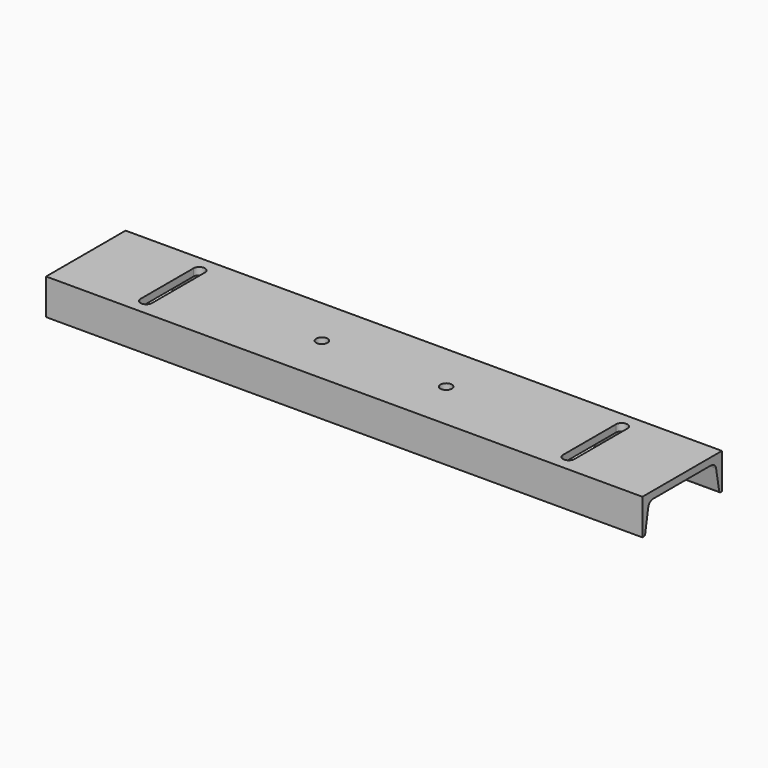
from build123d import *

# Parameters (mm, degrees)
F1_DEPTH = 457.2
F2_R     = 8.763
F3_DEPTH = 54.865


with BuildPart() as f1:
    # F0 (on Right) → F1 (new body, symmetric)
    with BuildSketch(Plane.YZ):
        with BuildLine():
            Line((76.2, -27.432), (76.2, 27.432))
            Line((76.2, 27.432), (-76.2, 27.432))
            Line((-76.2, 27.432), (-76.2, -27.432))
            Line((-76.2, -27.432), (-73.7731062, -27.432))
            ThreePointArc((-73.7731062, -27.432), (-71.9139892782, -26.7553368114), (-70.9247737511, -25.0419654446))
            Line((-70.9247737511, -25.0419654446), (-65.0301930675, 8.3878505834))
            ThreePointArc((-65.0301930675, 8.3878505834), (-61.7420976094, 14.0829983594), (-55.5625, 16.3321878394))
            Line((-55.5625, 16.3321878394), (55.5625, 16.3321878394))
            ThreePointArc((55.5625, 16.3321878394), (61.7420976094, 14.0829983594), (65.0301930675, 8.3878505834))
            Line((65.0301930675, 8.3878505834), (70.9247737511, -25.0419654446))
            ThreePointArc((70.9247737511, -25.0419654446), (71.9139892782, -26.7553368114), (73.7731062, -27.432))
            Line((73.7731062, -27.432), (76.2, -27.432))
        make_face()
    extrude(amount=F1_DEPTH, both=True)

    # F2 (on face) → F3 (cut, through all)
    with BuildSketch(Plane.XY.offset(27.432)):
        with BuildLine():
            Line((-315.087, -50.8), (-315.087, 50.8))
            ThreePointArc((-315.087, 50.8), (-323.85, 59.563), (-332.613, 50.8))
            Line((-332.613, 50.8), (-332.613, -50.8))
            ThreePointArc((-332.613, -50.8), (-323.85, -59.563), (-315.087, -50.8))
        make_face()
        with Locations((-95.25, 0)):
            Circle(F2_R)
        with Locations((95.25, 0)):
            Circle(F2_R)
        with BuildLine():
            ThreePointArc((315.087, -50.8), (323.85, -59.563), (332.613, -50.8))
            Line((332.613, -50.8), (332.613, 50.8))
            ThreePointArc((332.613, 50.8), (323.85, 59.563), (315.087, 50.8))
            Line((315.087, 50.8), (315.087, -50.8))
        make_face()
    extrude(amount=-F3_DEPTH, mode=Mode.SUBTRACT)


solid = f1.part
